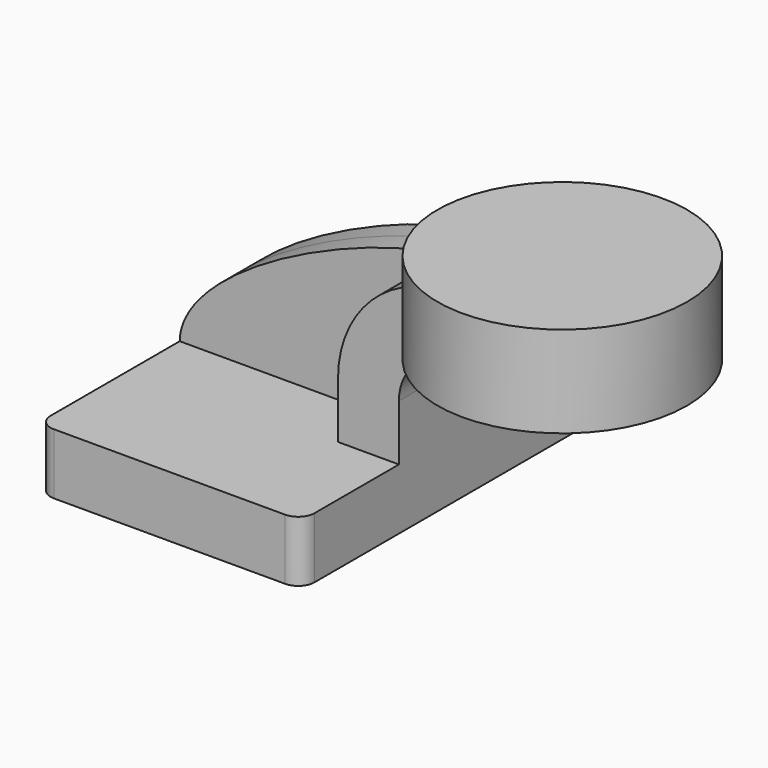
from build123d import *

# Parameters (mm, degrees)
F1_DEPTH = 63.5
F2_DEPTH = 25.4
F3_DEPTH = 7.9375
F0_W     = 39.053507328
F0_H     = 28.575
F5_R     = 5.08


with BuildPart() as f1:
    # F0 (on Front) → F1 (new body, symmetric)
    with BuildSketch(Plane.XZ):
        Polygon((-41.275, 9.525), (-41.275, -9.525), (41.275, -9.525), (41.275, 9.525), (22.225, 9.525), align=None)
    extrude(amount=F1_DEPTH, both=True)

    # F0 (on Front) → F2 (join, symmetric)
    with BuildSketch(Plane.XZ):
        with BuildLine():
            Line((22.225, 9.525), (41.275, 9.525))
            Line((41.275, 9.525), (41.275, 27.0002))
            ThreePointArc((41.275, 27.0002), (45.9246798487, 38.2255201513), (57.15, 42.8752))
            Line((57.15, 42.8752), (60.325, 42.8752))
            Line((60.325, 42.8752), (60.325, 61.9252))
            Line((60.325, 61.9252), (57.15, 61.9252))
            ThreePointArc((57.15, 61.9252), (32.4542956671, 51.6959043329), (22.225, 27.0002))
            Line((22.225, 27.0002), (22.225, 9.525))
        make_face()
        Polygon((60.325, 66.675), (60.325, 61.9252), (60.325, 42.8752), (60.325, 38.1), (72.071492672, 38.1), (72.071492672, 66.675), align=None)
    extrude(amount=F2_DEPTH, both=True)

    # F0 (on Front) → F3 (join, symmetric)
    with BuildSketch(Plane.XZ):
        with BuildLine():
            add(Edge.make_bspline(
                [(-41.275, 9.525), (-40.8343672752, 33.3350226283), (22.7826405317, 62.8510192037), (57.15, 61.9252)],
                knots=[0, 0, 0, 0, 111.5045361635, 111.5045361635, 111.5045361635, 111.5045361635], degree=3))
            Line((-41.275, 9.525), (22.225, 9.525))
            Line((22.225, 9.525), (22.225, 27.0002))
            ThreePointArc((22.225, 27.0002), (32.4542956671, 51.6959043329), (57.15, 61.9252))
        make_face()
    extrude(amount=F3_DEPTH, both=True)

    # F0 (on Front) → F4 (revolve)
    with BuildSketch(Plane.XZ):
        with Locations((91.598246336, 52.3875)):
            Rectangle(F0_W, F0_H)
    revolve(axis=Axis((72.071492672, 0, 52.3875), (0, 0, 1)))

    # F5
    f5_edges = [f1.edges().sort_by_distance(p)[0] for p in [
        (41.275, -63.5, 0),
        (41.275, 63.5, 0),
        (-41.275, 63.5, 0),
        (-41.275, -63.5, 0),
    ]]
    fillet(f5_edges, radius=F5_R)


solid = f1.part
